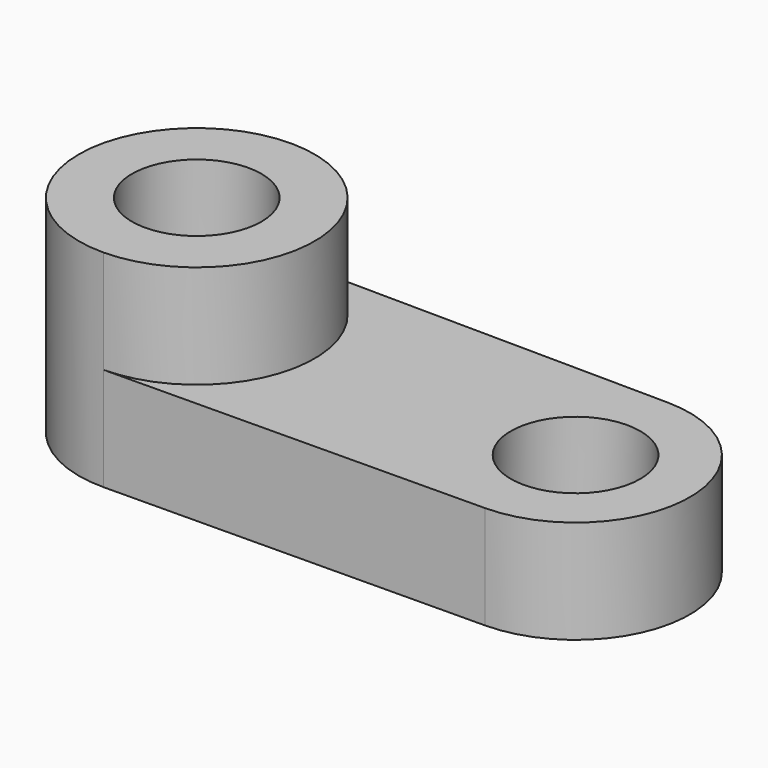
from build123d import *

# Parameters (mm, degrees)
F0_R     = 15.920661
F1_DEPTH = 25.4
F2_DEPTH = 50.8


with BuildPart() as f1:
    # F0 (on Top) → F1 (new body)
    with BuildSketch(Plane.XY):
        with BuildLine():
            Line((46.842293, 28.102132), (-46.308367, 28.973528))
            ThreePointArc((-46.308367, 28.973528), (-17.604609, 0), (-46.308367, -28.973528))
            Line((-46.308367, -28.973528), (46.842293, -28.102132))
            ThreePointArc((46.842293, -28.102132), (74.682768, 0), (46.842293, 28.102132))
        make_face()
        with Locations((46.579406, 0)):
            Circle(F0_R, mode=Mode.SUBTRACT)
        with BuildLine():
            ThreePointArc((-46.308367, -28.973528), (-17.604609, 0), (-46.308367, 28.973528))
            ThreePointArc((-46.308367, 28.973528), (-75.554202, 0), (-46.308367, -28.973528))
        make_face()
        with Locations((-46.579406, 0)):
            Circle(F0_R, mode=Mode.SUBTRACT)
    extrude(amount=F1_DEPTH)

    # F0 (on Top) → F2 (join)
    with BuildSketch(Plane.XY):
        with BuildLine():
            ThreePointArc((-46.308367, -28.973528), (-17.604609, 0), (-46.308367, 28.973528))
            ThreePointArc((-46.308367, 28.973528), (-75.554202, 0), (-46.308367, -28.973528))
        make_face()
        with Locations((-46.579406, 0)):
            Circle(F0_R, mode=Mode.SUBTRACT)
    extrude(amount=F2_DEPTH)


solid = f1.part
